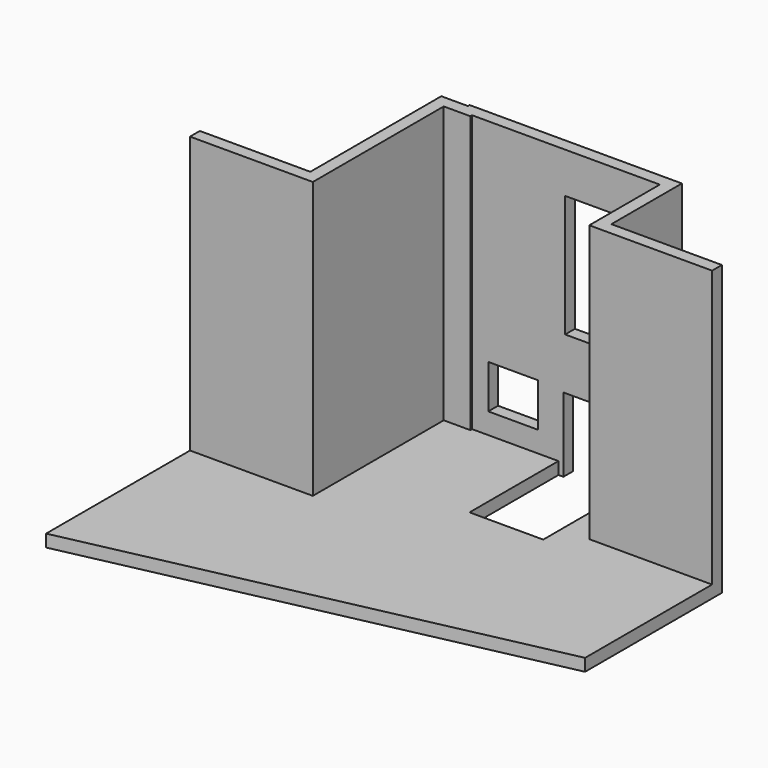
from build123d import *

# Parameters (mm, degrees)
F1_DEPTH = 4500
F3_DEPTH = 200
F4_W     = 951
F4_H     = 1987
F4_W_2   = 1010
F4_H_2   = 1210
F4_W_3   = 810
F4_H_3   = 710
F5_DEPTH = 200
F6_W     = 1200
F6_H     = 1810
F7_DEPTH = 200


with BuildPart() as f1:
    # F0 (on Top) → F1 (new body)
    with BuildSketch(Plane.XY):
        Polygon((-2000, -2500), (-2000, -2700), (0, -2700), (0, -35), (432, -35), (432, 0), (3490, 0), (3490, -1435), (5490, -1435), (5490, -1235), (3690, -1235), (3690, 200), (232, 200), (232, 165), (-200, 165), (-200, -2500), align=None)
    extrude(amount=F1_DEPTH)

    # F2 (on Top) → F3 (join)
    with BuildSketch(Plane.XY):
        Polygon((-2000, -2500), (-2000, -5629.799427), (5490, -4020.200573), (5490, -1235), (3690, -1235), (3690, 200), (-200, 200), (-200, -2500), align=None)
    extrude(amount=-F3_DEPTH)

    # F4 (on face) → F5 (cut, through all)
    with BuildSketch(Plane.XZ):
        with Locations((2424.5, 2843.5)):
            Rectangle(F4_W, F4_H)
        with Locations((2425, 405)):
            Rectangle(F4_W_2, F4_H_2)
        with Locations((1102, 695)):
            Rectangle(F4_W_3, F4_H_3)
    extrude(amount=-F5_DEPTH, mode=Mode.SUBTRACT)

    # F6 (on face) → F7 (cut, through all)
    with BuildSketch(Plane.XY):
        with Locations((2440, -905)):
            Rectangle(F6_W, F6_H)
    extrude(amount=-F7_DEPTH, mode=Mode.SUBTRACT)


solid = f1.part
